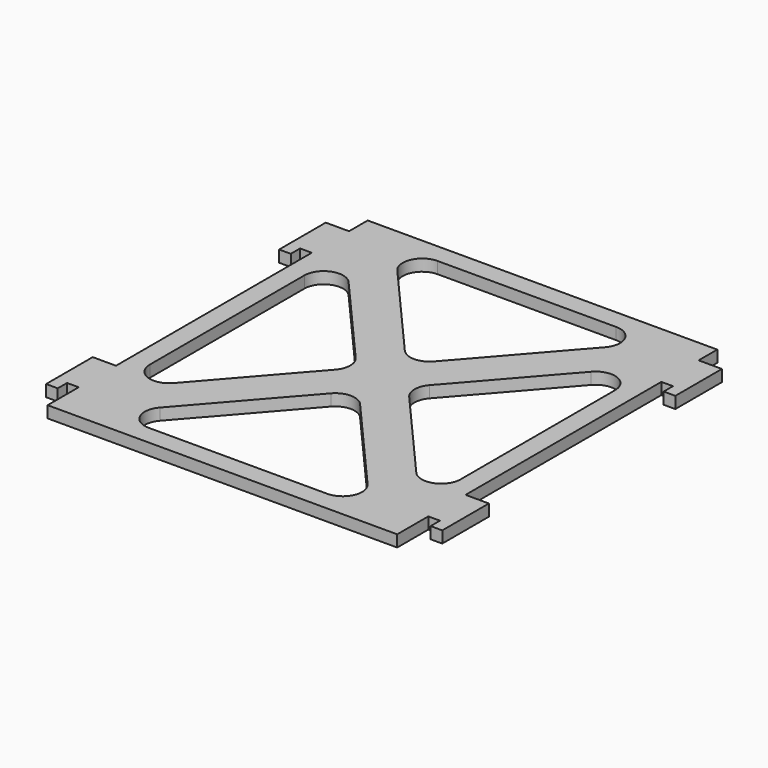
from build123d import *

# Parameters (mm, degrees)
F0_W     = 90
F0_H     = 103
F1_DEPTH = 3
F3_DEPTH = 3


with BuildPart() as f1:
    # F0 (on Top) → F1 (new body)
    with BuildSketch(Plane.XY):
        Rectangle(F0_W, F0_H)
        with BuildLine():
            ThreePointArc((-22.982442, -46.499999), (-27.534895, -43.567646), (-26.747589, -38.210065))
            Line((-26.747589, -38.210065), (-3.765147, -11.907937))
            ThreePointArc((-3.765147, -11.907937), (0, -10.197872), (3.765147, -11.907937))
            Line((3.765147, -11.907937), (26.747588, -38.210065))
            ThreePointArc((26.747588, -38.210065), (27.534895, -43.567646), (22.982441, -46.499999))
            Line((22.982441, -46.499999), (-22.982442, -46.499999))
        make_face(mode=Mode.SUBTRACT)
        with BuildLine():
            ThreePointArc((-40, 24.857684), (-36.757024, 29.538802), (-31.234853, 28.147618))
            Line((-31.234853, 28.147618), (-9.514547, 3.289934))
            ThreePointArc((-9.514547, 3.289934), (-8.279694, 0), (-9.514547, -3.289934))
            Line((-9.514547, -3.289934), (-31.234853, -28.147618))
            ThreePointArc((-31.234853, -28.147618), (-36.757024, -29.538802), (-40, -24.857684))
            Line((-40, -24.857684), (-40, 24.857684))
        make_face(mode=Mode.SUBTRACT)
        with BuildLine():
            Line((9.514547, 3.289934), (31.234853, 28.147618))
            ThreePointArc((31.234853, 28.147618), (36.757024, 29.538802), (40, 24.857684))
            Line((40, 24.857684), (40, -24.857684))
            ThreePointArc((40, -24.857684), (36.757024, -29.538802), (31.234853, -28.147618))
            Line((31.234853, -28.147618), (9.514547, -3.289934))
            ThreePointArc((9.514547, -3.289934), (8.279694, 0), (9.514547, 3.289934))
        make_face(mode=Mode.SUBTRACT)
        with BuildLine():
            ThreePointArc((22.982441, 46.499999), (27.534895, 43.567646), (26.747588, 38.210065))
            Line((26.747588, 38.210065), (3.765147, 11.907937))
            ThreePointArc((3.765147, 11.907937), (0, 10.197872), (-3.765147, 11.907937))
            Line((-3.765147, 11.907937), (-26.747589, 38.210065))
            ThreePointArc((-26.747589, 38.210065), (-27.534895, 43.567646), (-22.982442, 46.499999))
            Line((-22.982442, 46.499999), (22.982441, 46.499999))
        make_face(mode=Mode.SUBTRACT)
    extrude(amount=F1_DEPTH)

    # F2 (on face) → F3 (join, through all)
    with BuildSketch(Plane.XY.offset(3)):
        Polygon((-45, 33.5), (-45, 45.5), (-51, 45.5), (-51, 30.5), (-48, 30.5), (-48, 33.5), align=None)
        Polygon((51, 45.5), (45, 45.5), (45, 33.5), (48, 33.5), (48, 30.5), (51, 30.5), align=None)
        Polygon((51, -29.5), (45, -29.5), (45, -41.5), (48, -41.5), (48, -44.5), (51, -44.5), align=None)
        Polygon((-45, -41.5), (-45, -29.5), (-51, -29.5), (-51, -44.5), (-48, -44.5), (-48, -41.5), align=None)
    extrude(amount=-F3_DEPTH)


solid = f1.part
